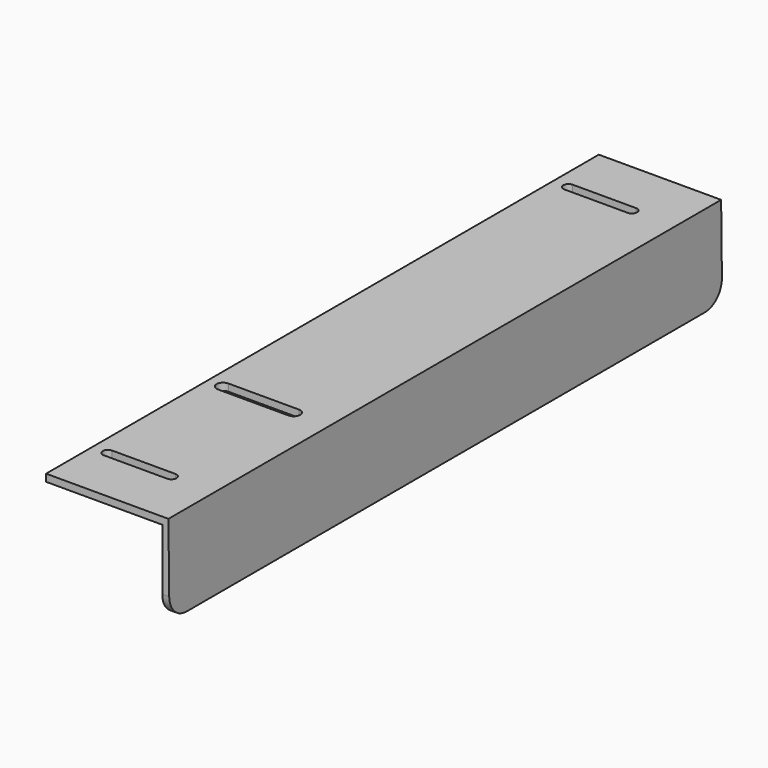
from build123d import *

# Parameters (mm, degrees)
F1_DEPTH = 609.6
F3_DEPTH = 79.443993
F5_DEPTH = 79.443993
F6_R     = 19.05


with BuildPart() as f1:
    # F0 (on Front) → F1 (new body)
    with BuildSketch(Plane.XZ):
        Polygon((5.433592, 55.333211), (-102.516408, 55.333211), (-102.516408, 48.983211), (0, 48.983211), (0, -24.109783), (6.349577, -24.036504), align=None)
    extrude(amount=F1_DEPTH)

    # F2 (on face) → F3 (cut, through all)
    with BuildSketch(Plane.XY.offset(55.333211)):
        with BuildLine():
            Line((-32.666408, -46.241132), (-88.546408, -46.241132))
            ThreePointArc((-88.546408, -46.241132), (-93.105277, -50.8), (-88.546408, -55.358868))
            Line((-88.546408, -55.358868), (-32.666408, -55.358868))
            ThreePointArc((-32.666408, -55.358868), (-28.10754, -50.8), (-32.666408, -46.241132))
        make_face()
        with BuildLine():
            Line((-32.666408, -554.241132), (-88.546408, -554.241132))
            ThreePointArc((-88.546408, -554.241132), (-93.105277, -558.8), (-88.546408, -563.358868))
            Line((-88.546408, -563.358868), (-32.666408, -563.358868))
            ThreePointArc((-32.666408, -563.358868), (-28.10754, -558.8), (-32.666408, -554.241132))
        make_face()
    extrude(amount=-F3_DEPTH, mode=Mode.SUBTRACT)

    # F4 (on face) → F5 (cut, through all)
    with BuildSketch(Plane.XY.offset(55.333211)):
        with BuildLine():
            Line((-26.316408, -426.085), (-88.546408, -426.085))
            ThreePointArc((-88.546408, -426.085), (-94.261408, -431.8), (-88.546408, -437.515))
            Line((-88.546408, -437.515), (-26.316408, -437.515))
            ThreePointArc((-26.316408, -437.515), (-20.601408, -431.8), (-26.316408, -426.085))
        make_face()
    extrude(amount=-F5_DEPTH, mode=Mode.SUBTRACT)

    # F6
    f6_edges = [f1.edges().sort_by_distance(p)[0] for p in [
        (3.174789, -609.6, -24.073143),
        (3.174789, 0, -24.073143),
    ]]
    fillet(f6_edges, radius=F6_R)


solid = f1.part
